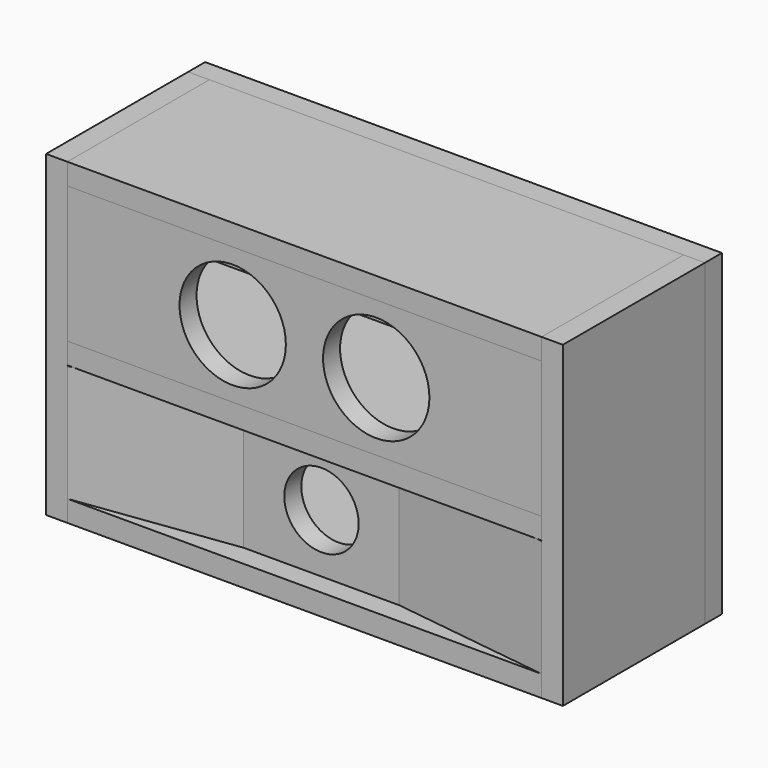
from build123d import *

# Parameters (mm, degrees)
SKETCH_W               = 446
SKETCH_H               = 129
PAD_DEPTH              = 20
SKETCH001_R            = 50
POCKET_DEPTH           = 20.001
BOX_W                  = 20
BOX_H                  = 167
BOX_DEPTH              = 299
BOX001_W               = 20
BOX001_H               = 167
BOX001_DEPTH           = 299
BOX002_W               = 446
BOX002_H               = 167
BOX002_DEPTH           = 20
BOX003_W               = 486
BOX003_H               = 20
BOX003_DEPTH           = 299
BOX004_W               = 446
BOX004_H               = 167
BOX004_DEPTH           = 20
BOX006_W               = 446
BOX006_H               = 167
BOX006_DEPTH           = 20
CYLINDER_R             = 35
CYLINDER_DEPTH         = 115
CYLINDER_ROLL_ANGLE    = 90
BOX005_W               = 149
BOX005_H               = 20
BOX005_DEPTH           = 110
BOX008_W               = 10
BOX008_H               = 20
BOX008_DEPTH           = 110
BOX009_W               = 20
BOX009_H               = 21
BOX009_DEPTH           = 110
BOX007_W               = 153
BOX007_H               = 20
BOX007_DEPTH           = 110
BOX007_PLACEMENT_ANGLE = 7.6
BOX012_W               = 10
BOX012_H               = 20
BOX012_DEPTH           = 110
BOX011_W               = 20
BOX011_H               = 21
BOX011_DEPTH           = 110
BOX010_W               = 153
BOX010_H               = 20
BOX010_DEPTH           = 110
BOX010_PLACEMENT_ANGLE = 7.6


with BuildPart() as face_avant_sup:
    # Sketch → Pad (new body)
    with BuildSketch(Plane.XZ):
        Rectangle(SKETCH_W, SKETCH_H)
    extrude(amount=PAD_DEPTH)

    # Sketch001 (on Face6 of Pad) → Pocket (cut, through all)
    with BuildSketch(Plane.XZ.offset(20)):
        with Locations((-67.5, 0)):
            Circle(SKETCH001_R)
        with Locations((67.5, 0)):
            Circle(SKETCH001_R)
    extrude(amount=-POCKET_DEPTH, mode=Mode.SUBTRACT)


with BuildPart() as face_gauche:
    # Box → Box (new body)
    with BuildSketch(Plane(origin=(-243, -20, -214.5), x_dir=(1, 0, 0), z_dir=(0, 0, 1))):
        with Locations((10, 83.5)):
            Rectangle(BOX_W, BOX_H)
    extrude(amount=BOX_DEPTH)


with BuildPart() as face_droite:
    # Box001 → Box001 (new body)
    with BuildSketch(Plane(origin=(223, -20, -214.5), x_dir=(1, 0, 0), z_dir=(0, 0, 1))):
        with Locations((10, 83.5)):
            Rectangle(BOX001_W, BOX001_H)
    extrude(amount=BOX001_DEPTH)


with BuildPart() as face_haute:
    # Box002 → Box002 (new body)
    with BuildSketch(Plane(origin=(-223, -20, 64.5), x_dir=(1, 0, 0), z_dir=(0, 0, 1))):
        with Locations((223, 83.5)):
            Rectangle(BOX002_W, BOX002_H)
    extrude(amount=BOX002_DEPTH)


with BuildPart() as face_fond:
    # Box003 → Box003 (new body)
    with BuildSketch(Plane(origin=(-243, 147, -214.5), x_dir=(1, 0, 0), z_dir=(0, 0, 1))):
        with Locations((243, 10)):
            Rectangle(BOX003_W, BOX003_H)
    extrude(amount=BOX003_DEPTH)


with BuildPart() as obj1:
    # Box004 → Box004 (new body)
    with BuildSketch(Plane(origin=(-223, -20, -214.5), x_dir=(1, 0, 0), z_dir=(0, 0, 1))):
        with Locations((223, 83.5)):
            Rectangle(BOX004_W, BOX004_H)
    extrude(amount=BOX004_DEPTH)


with BuildPart() as obj2:
    # Box006 → Box006 (new body)
    with BuildSketch(Plane(origin=(-223, -20, -84), x_dir=(1, 0, 0), z_dir=(0, 0, 1))):
        with Locations((223, 83.5)):
            Rectangle(BOX006_W, BOX006_H)
    extrude(amount=BOX006_DEPTH)


with BuildPart() as bass_reflex:
    # Cylinder → Cylinder (new body)
    with BuildSketch(Plane.XY):
        Circle(CYLINDER_R)
    extrude(amount=CYLINDER_DEPTH)


with BuildPart() as bass_reflex_1:
    # Cylinder roll: moved
    add(bass_reflex.part.rotate(Axis((0, 0, 0), (1, 0, 0)), CYLINDER_ROLL_ANGLE))


with BuildPart() as bass_reflex_2:
    # Cylinder placement: moved
    add(bass_reflex_1.part.moved(Location((0, 115, -139.5))))


with BuildPart() as avant_bass_reflex:
    # Box005 → Box005 (new body)
    with BuildSketch(Plane(origin=(-74.5, 0, -194.5), x_dir=(1, 0, 0), z_dir=(0, 0, 1))):
        with Locations((74.5, 10)):
            Rectangle(BOX005_W, BOX005_H)
    extrude(amount=BOX005_DEPTH)

    # Cut: cut Bass Reflex
    add(bass_reflex_2.part, mode=Mode.SUBTRACT)


with BuildPart() as coupe1:
    # Box008 → Box008 (new body)
    with BuildSketch(Plane(origin=(-74.5, 0, -194.5), x_dir=(1, 0, 0), z_dir=(0, 0, 1))):
        with Locations((5, 10)):
            Rectangle(BOX008_W, BOX008_H)
    extrude(amount=BOX008_DEPTH)


with BuildPart() as coupe2:
    # Box009 → Box009 (new body)
    with BuildSketch(Plane(origin=(-243, -20, -194.5), x_dir=(1, 0, 0), z_dir=(0, 0, 1))):
        with Locations((10, 10.5)):
            Rectangle(BOX009_W, BOX009_H)
    extrude(amount=BOX009_DEPTH)


with BuildPart() as coupe_avant_gauche:
    # Box007 → Box007 (new body)
    with BuildSketch(Plane.XY):
        with Locations((76.5, 10)):
            Rectangle(BOX007_W, BOX007_H)
    extrude(amount=BOX007_DEPTH)


with BuildPart() as coupe_avant_gauche_1:
    # Box007 placement: moved
    add(coupe_avant_gauche.part.moved(Location((-223, -20, -194.5))).rotate(Axis((-223, -20, -194.5), (0, 0, 1)), BOX007_PLACEMENT_ANGLE))

    # Cut001: cut Coupe2
    add(coupe2.part, mode=Mode.SUBTRACT)

    # Cut002: cut Coupe1
    add(coupe1.part, mode=Mode.SUBTRACT)


with BuildPart() as coupe004:
    # Box012 → Box012 (new body)
    with BuildSketch(Plane(origin=(-74.5, 0, -194.5), x_dir=(1, 0, 0), z_dir=(0, 0, 1))):
        with Locations((5, 10)):
            Rectangle(BOX012_W, BOX012_H)
    extrude(amount=BOX012_DEPTH)


with BuildPart() as coupe003:
    # Box011 → Box011 (new body)
    with BuildSketch(Plane(origin=(-243, -20, -194.5), x_dir=(1, 0, 0), z_dir=(0, 0, 1))):
        with Locations((10, 10.5)):
            Rectangle(BOX011_W, BOX011_H)
    extrude(amount=BOX011_DEPTH)


with BuildPart() as coupe_avant_droit:
    # Box010 → Box010 (new body)
    with BuildSketch(Plane.XY):
        with Locations((76.5, 10)):
            Rectangle(BOX010_W, BOX010_H)
    extrude(amount=BOX010_DEPTH)


with BuildPart() as coupe_avant_droit_1:
    # Box010 placement: moved
    add(coupe_avant_droit.part.moved(Location((-223, -20, -194.5))).rotate(Axis((-223, -20, -194.5), (0, 0, 1)), BOX010_PLACEMENT_ANGLE))

    # Cut004: cut Coupe003
    add(coupe003.part, mode=Mode.SUBTRACT)

    # Cut003: cut Coupe004
    add(coupe004.part, mode=Mode.SUBTRACT)


with BuildPart() as coupe_avant_droit001:
    # Part__Mirroring: instance of Coupe avant droit
    add(coupe_avant_droit_1.part.mirror(Plane(origin=(0, 0, 0), x_dir=(0, -1, 0), z_dir=(1, 0, 0))))


solid = Compound([face_avant_sup.part, face_gauche.part, face_droite.part, face_haute.part, face_fond.part, obj1.part, obj2.part, avant_bass_reflex.part, coupe_avant_gauche_1.part, coupe_avant_droit001.part])
